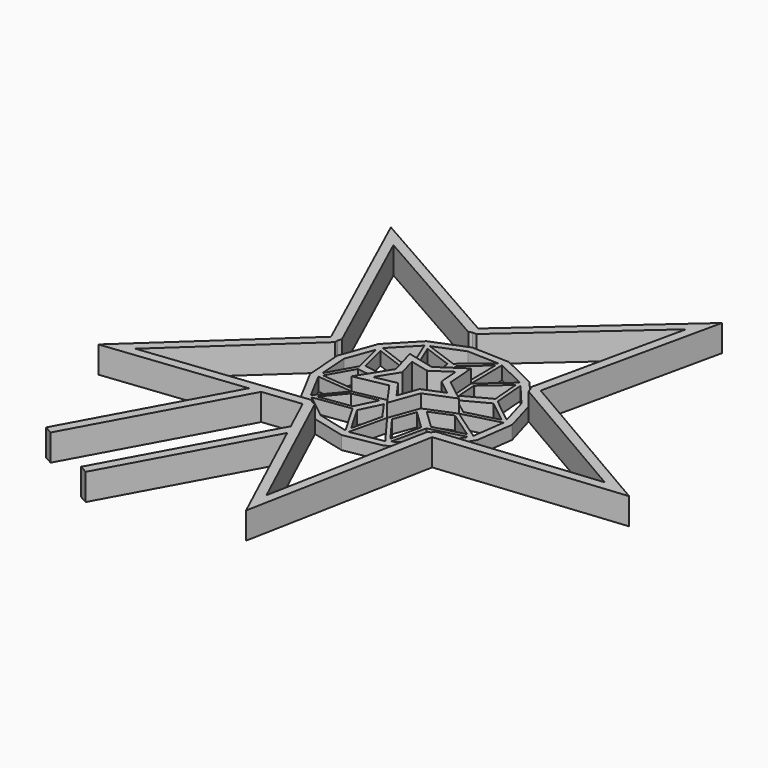
from build123d import *

# Parameters (mm, degrees)
F1_DEPTH = 2.54
F2_DEPTH = 5.08
F3_DEPTH = 2.54


with BuildPart() as f1:
    # F0 (on Top) → F1 (new body)
    with BuildSketch(Plane.XY):
        Polygon((4.1629817264, 16.7427408623), (-2.2013881197, 16.9608854028), (-3.0068131679, 16.9884920758), (-3.5975513827, 16.7493756287), (-9.6567027493, 14.2967786738), (-14.636860697, 9.1330223569), (-16.819031361, 3.1255211535), (-17.0861724585, 2.3900835037), (-17.0408391317, 1.7477325928), (-16.5811297789, -4.7661225006), (-13.2090591257, -11.0982226257), (-8.1707658783, -15.0293453717), (-7.5530221491, -15.5113392346), (-6.9259689778, -15.6672522309), (-0.5909990259, -17.2424043737), (6.4732131979, -15.9921011543), (11.7815616344, -12.4065981462), (12.4181480525, -11.9766183616), (12.7489744416, -11.4464258818), (16.2158722935, -5.8902694501), (17.2097248984, 1.2145605608), (15.4482409163, 7.3426855737), (15.2278597229, 8.1093820168), (14.8271287482, 8.5863303821), (10.6129592606, 13.6020176507), align=None)
        Polygon((-8.87183017, 13.1347723613), (-8.2580116546, 13.3832311521), (-2.762426935, 15.6077100491), (3.1628166018, 15.4046169605), (3.8246250129, 15.3819328779), (4.0175995312, 15.2879667291), (9.6097206141, 12.5649643009), (9.7503645505, 12.4964797716), (10.3154122974, 11.8239622569), (13.990177478, 7.4502717858), (15.5683023366, 1.9600450691), (15.8109616228, 1.1158441247), (15.7892903314, 0.9609209091), (14.9276215775, -5.1989563128), (14.8978868649, -5.4115231227), (14.5693523604, -5.9380425585), (11.4088321251, -11.0031888601), (6.461372617, -14.3449308653), (5.9470866648, -14.6923032827), (5.7392984293, -14.7290799665), (-0.3884161265, -15.8136313636), (-0.5429641074, -15.8409849923), (-1.0821087258, -15.7069299285), (-6.9391314528, -14.250616486), (-11.6974519194, -10.5379421932), (-12.1354599299, -10.1961869264), (-12.2011743525, -10.0727878799), (-15.0780164622, -4.6706317106), (-15.233457138, -4.3787440178), (-15.300853021, -3.4237775529), (-15.6974512153, 2.1958235111), (-13.774064022, 7.4908955551), (-13.4472133706, 8.3907132065), (-13.3335565047, 8.5085601433), (-8.9854870359, 13.0169254245), align=None, mode=Mode.SUBTRACT)
    extrude(amount=F1_DEPTH)

    # F0 (on Top) → F2 (join)
    with BuildSketch(Plane.XY):
        Polygon((-33.6969470542, 35.9051802405), (-18.5940397475, 2.7332442428), (-44.1299353493, -20.8721632227), (-17.7662312147, -17.9002710145), (-15.6070743083, -17.6568764765), (-8.3429911406, -16.8380206717), (-5.2143965318, -23.5869952705), (-4.2844619667, -25.5930412891), (6.5595177125, -48.9855713404), (13.446561196, -13.1637173716), (48.2686344411, -9.6937073203), (16.6703053103, 8.6887283333), (24.1416345765, 42.6079515874), (-3.119114862, 18.5226071992), align=None)
        Polygon((-3.0068131679, 16.9884920758), (-2.2013881197, 16.9608854028), (21.2322100997, 37.6648753881), (14.8271287482, 8.5863303821), (15.2278597229, 8.1093820168), (15.4482409163, 7.3426855737), (42.6276437938, -8.4690246731), (12.7489744416, -11.4464258818), (12.4181480525, -11.9766183616), (11.7815616344, -12.4065981462), (5.8542420156, -43.2366020978), (-6.9259689778, -15.6672522309), (-7.5530221491, -15.5113392346), (-8.1707658783, -15.0293453717), (-38.9424450696, -18.498133868), (-17.0408391317, 1.7477325928), (-17.0861724585, 2.3900835037), (-16.819031361, 3.1255211535), (-29.8048108816, 31.6474102437), (-3.5975513827, 16.7493756287), align=None, mode=Mode.SUBTRACT)
        Polygon((-15.6070743083, -17.6568764765), (-17.7662312147, -17.9002710145), (-33.477195848, -46.6509044953), (-31.9222960033, -47.5132837729), align=None)
        Polygon((-4.2844619667, -25.5930412891), (-5.2143965318, -23.5869952705), (-21.4599514133, -53.315914213), (-19.9050526355, -54.1782928989), align=None)
    extrude(amount=F2_DEPTH)



with BuildPart() as f2:
    # F0 (on Top) → F2, piece 2 (new body)
    with BuildSketch(Plane.XY):
        Polygon((4.1200000644, 7.7903017796), (-0.7940794801, 4.4865484492), (-5.9754360801, 5.7629782777), (-4.5123451925, 0.6312052529), (-8.2113317605, -5.3255283132), (-1.9947032178, -4.096442149), (1.2593087084, -8.6874249228), (3.2795508064, -3.1629457339), (8.763532132, -0.9293583373), (4.5119235723, 2.4027612904), align=None)
        Polygon((-4.1539905478, 4.0062945987), (-0.5520264313, 3.1189489102), (3.0121522283, 5.5151590265), (3.2860576248, 1.749943662), (6.2573989827, -0.578790209), (2.2798709363, -2.1988096778), (0.897081895, -5.9801333565), (-1.4341748227, -2.6910367967), (-5.5907486439, -3.5128306902), (-3.1368822337, 0.4387998832), align=None, mode=Mode.SUBTRACT)
    extrude(amount=F2_DEPTH)


with BuildPart() as f1_1:
    add(f1.part)

    add(f2.part)  # F3 merges F2
    # F0 (on Top) → F3 (join)
    with BuildSketch(Plane.XY):
        Polygon((-4.5123451925, 0.6312052529), (-5.9754360801, 5.7629782777), (-13.3335565047, 8.5085601433), (-13.4472133706, 8.3907132065), (-13.774064022, 7.4908955551), (-12.3904388558, 1.7332251319), align=None)
        Polygon((-11.7914695166, 2.3932106743), (-13.0463627003, 7.6151895343), (-6.5817369362, 5.2030029646), (-5.5309745762, 1.5174671034), align=None, mode=Mode.SUBTRACT)
        Polygon((-8.2113317605, -5.3255283132), (-4.5123451925, 0.6312052529), (-12.3904388558, 1.7332251319), (-15.300853021, -3.4237775529), (-15.233457138, -4.3787440178), (-15.0780164622, -4.6706317106), align=None)
        Polygon((-14.7583322732, -3.961178532), (-11.9955596687, 0.9342160512), (-5.7350646244, 0.0584724657), (-8.5961228333, -4.5488871865), align=None, mode=Mode.SUBTRACT)
        Polygon((-0.7940794801, 4.4865484492), (-1.964637715, 11.1002015721), (-8.2580116546, 13.3832311521), (-8.87183017, 13.1347723613), (-8.9854870359, 13.0169254245), (-5.9754360801, 5.7629782777), align=None)
        Polygon((-5.4377678462, 6.3891455642), (-7.9717519008, 12.4958150767), (-2.6158103292, 10.5528552027), (-1.7166215483, 5.4724392849), align=None, mode=Mode.SUBTRACT)
        Polygon((3.1628166018, 15.4046169605), (-1.964637715, 11.1002015721), (-0.7940794801, 4.4865484492), (4.1200000644, 7.7903017796), (4.0175995312, 15.2879667291), (3.8246250129, 15.3819328779), align=None)
        Polygon((-0.2659681626, 5.7291925355), (-1.1651568481, 10.8096079145), (3.2910031409, 14.5504825172), (3.3780218404, 8.1790601046), align=None, mode=Mode.SUBTRACT)
        Polygon((9.6097206141, 12.5649643009), (4.1200000644, 7.7903017796), (4.5119235723, 2.4027612904), (10.8034854124, 5.7532438515), (10.3154122974, 11.8239622569), (9.7503645505, 12.4964797716), align=None)
        Polygon((4.8887121728, 7.3756327333), (4.881389673, 7.4762908036), (5.0001721085, 7.5796013524), (9.5962864589, 11.577053451), (10.0305084156, 6.1761429256), (5.1644805282, 3.5848083742), align=None, mode=Mode.SUBTRACT)
        Polygon((10.8034854124, 5.7532438515), (4.5119235723, 2.4027612904), (8.763532132, -0.9293583373), (15.7892903314, 0.9609209091), (15.8109616228, 1.1158441247), (15.5683023366, 1.9600450691), align=None)
        Polygon((5.8569437001, 2.2844957212), (10.7229715874, 4.8758302725), (14.9620662315, 1.5011510565), (8.9279294384, -0.1223325912), align=None, mode=Mode.SUBTRACT)
        Polygon((14.9276215775, -5.1989563128), (8.763532132, -0.9293583373), (3.2795508064, -3.1629457339), (7.9430756148, -7.6606580026), (14.5693523604, -5.9380425585), (14.8978868649, -5.4115231227), align=None)
        Polygon((8.1572798635, -6.8438879856), (4.6053955772, -3.418291642), (8.6719909478, -1.7619956724), (13.8661536119, -5.3597673452), align=None, mode=Mode.SUBTRACT)
        Polygon((7.9430756148, -7.6606580026), (3.2795508064, -3.1629457339), (1.2593087084, -8.6874249228), (5.7392984293, -14.7290799665), (5.9470866648, -14.6923032827), (6.461372617, -14.3449308653), align=None)
        Polygon((2.0874466636, -8.5675672358), (3.5827076434, -4.4786819617), (7.1345919298, -7.9042783053), (5.859837335, -13.654963535), align=None, mode=Mode.SUBTRACT)
        Polygon((1.2593087084, -8.6874249228), (-1.9947032178, -4.096442149), (-4.6486377456, -9.5467212497), (-1.0821087258, -15.7069299285), (-0.5429641074, -15.8409849923), (-0.3884161265, -15.8136313636), align=None)
        Polygon((-0.8661165856, -14.6098730783), (-3.8147970804, -9.5168296532), (-1.8767315973, -5.5367021526), (0.4671585391, -8.8436228043), align=None, mode=Mode.SUBTRACT)
        Polygon((-1.9947032178, -4.096442149), (-8.2113317605, -5.3255283132), (-12.2011743525, -10.0727878799), (-12.1354599299, -10.1961869264), (-11.6974519194, -10.5379421932), (-4.6486377456, -9.5467212497), align=None)
        Polygon((-11.1601935886, -9.8211437548), (-7.8689757469, -5.9051332795), (-3.1249878704, -4.9672020806), (-5.0716364955, -8.9649564363), align=None, mode=Mode.SUBTRACT)
    extrude(amount=F3_DEPTH)


solid = f1_1.part
